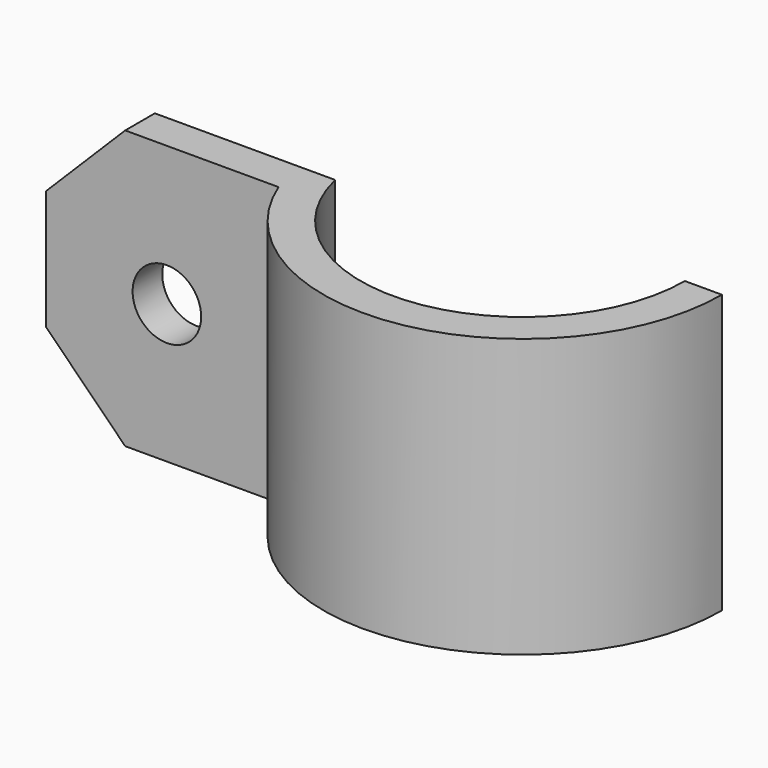
from build123d import *

# Parameters (mm, degrees)
SKETCH016_R       = 1.85
EXTRUDE013_DEPTH  = 12
CYLINDER007_R     = 5
CYLINDER007_DEPTH = 1
EXTRUDE012_DEPTH  = 15


with BuildPart() as extrude013:
    # Sketch016 → Extrude013 (new body)
    with BuildSketch(Plane.XZ):
        Polygon((11.75, 36), (11.75, 19), (-17.25, 19), (-23.25, 25), (-23.25, 30), (-17.25, 36), align=None)
        with Locations((-16, 27.481564)):
            Circle(SKETCH016_R, mode=Mode.SUBTRACT)
    extrude(amount=-EXTRUDE013_DEPTH)


with BuildPart() as unprintable:
    # Cylinder007 → Cylinder007 (new body)
    with BuildSketch(Plane(origin=(-16, 18, 27.5), x_dir=(1, 0, 0), z_dir=(0, -1, 0))):
        Circle(CYLINDER007_R)
    extrude(amount=CYLINDER007_DEPTH)


with BuildPart() as body007:
    # Sketch015 → Extrude012 (new body)
    with BuildSketch(Plane.XY.offset(50)):
        with BuildLine():
            ThreePointArc((8.75, 0), (1.006685, 8.691898), (-8.518363, 2))
            Line((-8.518363, 2), (-22.518363, 2))
            Line((-22.518363, 4), (-22.518363, 2))
            Line((-9.978101, 4), (-22.518363, 4))
            ThreePointArc((10.75, 0), (2.036899, 10.555261), (-9.978101, 4))
            Line((8.75, 0), (10.75, 0))
        make_face()
    extrude(amount=EXTRUDE012_DEPTH)


with BuildPart() as body007_1:
    # Extrude012 placement: moved
    add(body007.part.moved(Location((0, 0, -30))))

    # Fusion016: union unprintable
    add(unprintable.part)

    # Common001: intersect Extrude013
    add(extrude013.part, mode=Mode.INTERSECT)


with BuildPart() as part_mirroring008:
    # Part__Mirroring008: instance of Body007
    add(body007_1.part.mirror(Plane(origin=(0, 0, 0), x_dir=(1, 0, 0), z_dir=(0, 1, 0))))


solid = part_mirroring008.part
